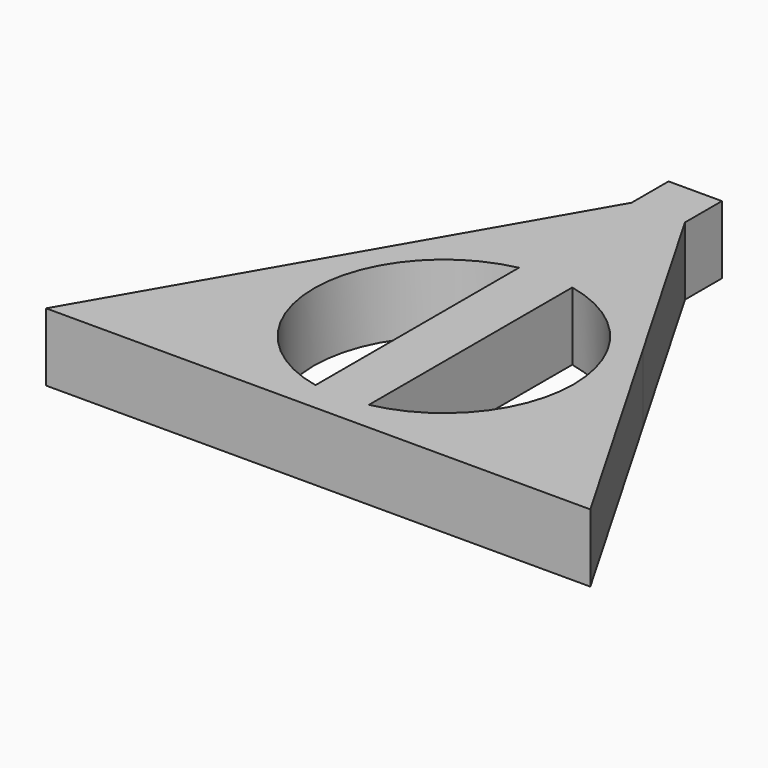
from build123d import *

# Parameters (mm, degrees)
F1_DEPTH = 5


with BuildPart() as f1:
    # F0 (on Top) → F1 (new body)
    with BuildSketch(Plane.XY):
        with BuildLine():
            Line((-1.9610302988, 23.7158841491), (-1.9610302988, 20.3192800363))
            Line((-1.9610302988, 20.3192800363), (-10.0000000112, 6.3953760539))
            ThreePointArc((-10.0000000112, 6.3953760539), (-6.6047488214, 10.093442752), (-1.9610302988, 12.0011393288))
            Line((-1.9610302988, 12.0011393288), (-1.9610302988, 9.9653027286))
            Line((-1.9610302988, 9.9653027286), (-1.9610302988, -8.7215559657))
            Line((-1.9610302988, -8.7215559657), (-1.9610302988, -10.7573925659))
            ThreePointArc((-1.9610302988, -10.7573925659), (-0.9840955869, -10.8831207171), (-3.69e-08, -10.9251320023))
            ThreePointArc((-3.69e-08, -10.9251320023), (0.9840955501, -10.8831207203), (1.9610302988, -10.7573925659))
            Line((1.9610302988, -10.7573925659), (1.9610302988, -8.7215559657))
            Line((1.9610302988, -8.7215559657), (1.9610302988, 9.9653027286))
            Line((1.9610302988, 9.9653027286), (1.9610302988, 12.0011393288))
            ThreePointArc((1.9610302988, 12.0011393288), (6.6047486362, 10.0934428811), (9.9999997855, 6.3953764449))
            Line((9.9999997855, 6.3953764449), (1.9610302988, 20.3192800363))
            Line((1.9610302988, 20.3192800363), (1.9610302988, 23.7158841491))
            Line((1.9610302988, 23.7158841491), (-1.9610302988, 23.7158841491))
        make_face()
        with BuildLine():
            ThreePointArc((-1.9610302988, -10.7573925659), (-10.4556649406, -4.2783719167), (-10.0000000112, 6.3953760539))
            Line((-10.0000000112, 6.3953760539), (-20, -10.9251320023))
            Line((-20, -10.9251320023), (-1.9610302988, -10.9251320023))
            Line((-1.9610302988, -10.9251320023), (-1.9610302988, -10.7573925659))
        make_face()
        with BuildLine():
            ThreePointArc((-1.9610302988, 12.0011393288), (-6.6047488214, 10.093442752), (-10.0000000112, 6.3953760539))
            ThreePointArc((-10.0000000112, 6.3953760539), (-10.4556649406, -4.2783719167), (-1.9610302988, -10.7573925659))
            Line((-1.9610302988, -10.7573925659), (-1.9610302988, -8.7215559657))
            ThreePointArc((-1.9610302988, -8.7215559657), (-9.5470053838, 0.6218733815), (-1.9610302988, 9.9653027286))
            Line((-1.9610302988, 9.9653027286), (-1.9610302988, 12.0011393288))
        make_face()
        with BuildLine():
            ThreePointArc((-3.69e-08, -10.9251320023), (-0.9840955869, -10.8831207171), (-1.9610302988, -10.7573925659))
            Line((-1.9610302988, -10.7573925659), (-1.9610302988, -10.9251320023))
            Line((-1.9610302988, -10.9251320023), (-3.69e-08, -10.9251320023))
        make_face()
        with BuildLine():
            ThreePointArc((1.9610302988, -10.7573925659), (0.9840955501, -10.8831207203), (-3.69e-08, -10.9251320023))
            Line((-3.69e-08, -10.9251320023), (1.9610302988, -10.9251320023))
            Line((1.9610302988, -10.9251320023), (1.9610302988, -10.7573925659))
        make_face()
        with BuildLine():
            Line((1.9610302988, -10.7573925659), (1.9610302988, -10.9251320023))
            Line((1.9610302988, -10.9251320023), (20, -10.9251320023))
            Line((20, -10.9251320023), (9.9999997855, 6.3953764449))
            ThreePointArc((9.9999997855, 6.3953764449), (10.4556650364, -4.2783717123), (1.9610302988, -10.7573925659))
        make_face()
        with BuildLine():
            Line((1.9610302988, -8.7215559657), (1.9610302988, -10.7573925659))
            ThreePointArc((1.9610302988, -10.7573925659), (10.4556650364, -4.2783717123), (9.9999997855, 6.3953764449))
            ThreePointArc((9.9999997855, 6.3953764449), (6.6047486362, 10.0934428811), (1.9610302988, 12.0011393288))
            Line((1.9610302988, 12.0011393288), (1.9610302988, 9.9653027286))
            ThreePointArc((1.9610302988, 9.9653027286), (9.5470053838, 0.6218733815), (1.9610302988, -8.7215559657))
        make_face()
    extrude(amount=F1_DEPTH)


solid = f1.part
